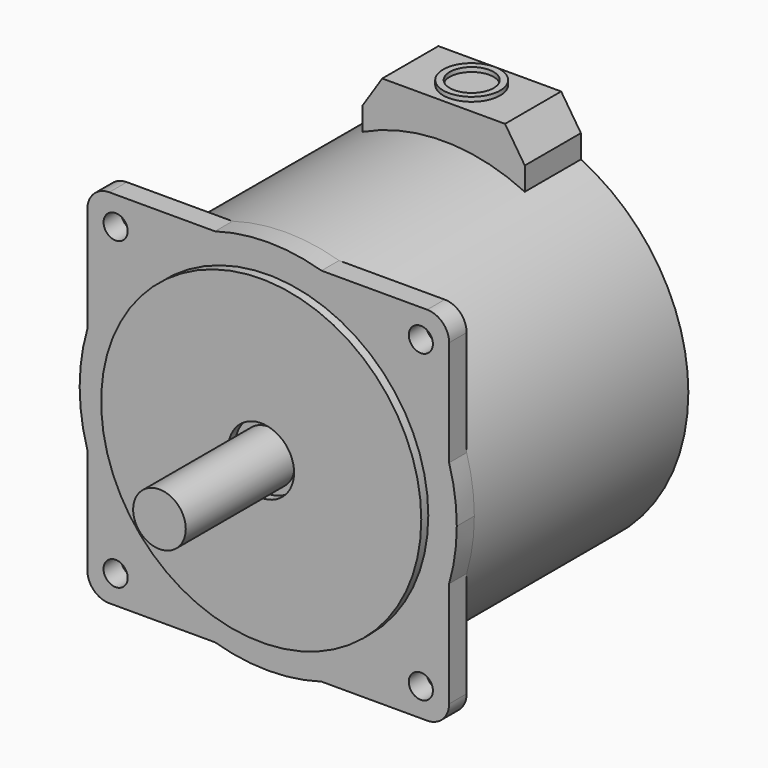
from build123d import *

# Parameters (mm, degrees)
F0_R      = 43
F1_DEPTH  = 61
F2_R      = 7.5
F3_DEPTH  = 7.5
F5_DEPTH  = 5
F6_R      = 5
F7_R      = 2.75
F8_DEPTH  = 66.001
F9_R      = 36.5
F9_R_2    = 7.5
F10_DEPTH = 2
F11_R     = 6
F12_DEPTH = 31
F14_DEPTH = 16
F15_R     = 6.5
F15_R_2   = 5
F16_DEPTH = 1


with BuildPart() as f1:
    # F0 (on Front) → F1 (new body)
    with BuildSketch(Plane.XZ):
        Circle(F0_R)
    extrude(amount=F1_DEPTH)

    # F2 (on face) → F3 (cut)
    with BuildSketch(Plane(origin=(0, 0, 0), x_dir=(-1, 0, 0), z_dir=(0, 1, 0))):
        Circle(F2_R)
    extrude(amount=-F3_DEPTH, mode=Mode.SUBTRACT)

    # F4 (on face) → F5 (join)
    with BuildSketch(Plane.XZ.offset(61)):
        with BuildLine():
            Line((-41.25, -12.142384), (-41.25, -41.25))
            Line((-41.25, -41.25), (-12.142384, -41.25))
            ThreePointArc((-12.142384, -41.25), (-30.405592, -30.405592), (-41.25, -12.142384))
        make_face()
        with BuildLine():
            ThreePointArc((-41.25, -12.142384), (-30.405592, -30.405592), (-12.142384, -41.25))
            ThreePointArc((-12.142384, -41.25), (0, -43), (12.142384, -41.25))
            ThreePointArc((12.142384, -41.25), (30.405592, -30.405592), (41.25, -12.142384))
            ThreePointArc((41.25, -12.142384), (42.560251, -6.133922), (43, 0))
            ThreePointArc((43, 0), (42.560251, 6.133922), (41.25, 12.142384))
            ThreePointArc((41.25, 12.142384), (30.405592, 30.405592), (12.142384, 41.25))
            ThreePointArc((12.142384, 41.25), (0, 43), (-12.142384, 41.25))
            ThreePointArc((-12.142384, 41.25), (-30.405592, 30.405592), (-41.25, 12.142384))
            ThreePointArc((-41.25, 12.142384), (-43, 0), (-41.25, -12.142384))
        make_face()
        with BuildLine():
            ThreePointArc((41.25, -12.142384), (30.405592, -30.405592), (12.142384, -41.25))
            Line((12.142384, -41.25), (41.25, -41.25))
            Line((41.25, -41.25), (41.25, -12.142384))
        make_face()
        with BuildLine():
            Line((-41.25, 41.25), (-41.25, 12.142384))
            ThreePointArc((-41.25, 12.142384), (-30.405592, 30.405592), (-12.142384, 41.25))
            Line((-12.142384, 41.25), (-41.25, 41.25))
        make_face()
        with BuildLine():
            Line((41.25, 41.25), (12.142384, 41.25))
            ThreePointArc((12.142384, 41.25), (30.405592, 30.405592), (41.25, 12.142384))
            Line((41.25, 12.142384), (41.25, 41.25))
        make_face()
    extrude(amount=F5_DEPTH)

    # F6
    f6_edges = [f1.edges().sort_by_distance(p)[0] for p in [
        (41.25, -63.5, -41.25),
        (-41.25, -63.5, -41.25),
        (-41.25, -63.5, 41.25),
        (41.25, -63.5, 41.25),
    ]]
    fillet(f6_edges, radius=F6_R)

    # F7 (on face) → F8 (cut, through all)
    with BuildSketch(Plane.XZ.offset(66)):
        with Locations((-34.8, 34.8)):
            Circle(F7_R)
        with Locations((34.8, 34.8)):
            Circle(F7_R)
        with Locations((34.8, -34.8)):
            Circle(F7_R)
        with Locations((-34.8, -34.8)):
            Circle(F7_R)
    extrude(amount=-F8_DEPTH, mode=Mode.SUBTRACT)

    # F9 (on face) → F10 (join)
    with BuildSketch(Plane.XZ.offset(66)):
        Circle(F9_R)
        Circle(F9_R_2, mode=Mode.SUBTRACT)
    extrude(amount=F10_DEPTH)

    # F11 (on face) → F12 (join)
    with BuildSketch(Plane.XZ.offset(66)):
        Circle(F11_R)
    extrude(amount=F12_DEPTH)

    # F13 (on face) → F14 (join)
    with BuildSketch(Plane(origin=(0, 0, 0), x_dir=(-1, 0, 0), z_dir=(0, 1, 0))):
        with BuildLine():
            Line((-18.5, 44.100001), (-18.5, 38.816878))
            ThreePointArc((-18.5, 38.816878), (0, 43), (18.5, 38.816878))
            Line((18.5, 38.816878), (18.5, 44.100001))
            Line((18.5, 44.100001), (14, 51))
            Line((14, 51), (0, 51))
            Line((0, 51), (-14, 51))
            Line((-14, 51), (-18.5, 44.100001))
        make_face()
    extrude(amount=-F14_DEPTH)

    # F15 (on face) → F16 (join)
    with BuildSketch(Plane.XY.offset(51)):
        with Locations((0, -8)):
            Circle(F15_R)
        with Locations((0, -8)):
            Circle(F15_R_2, mode=Mode.SUBTRACT)
    extrude(amount=F16_DEPTH)


solid = f1.part
